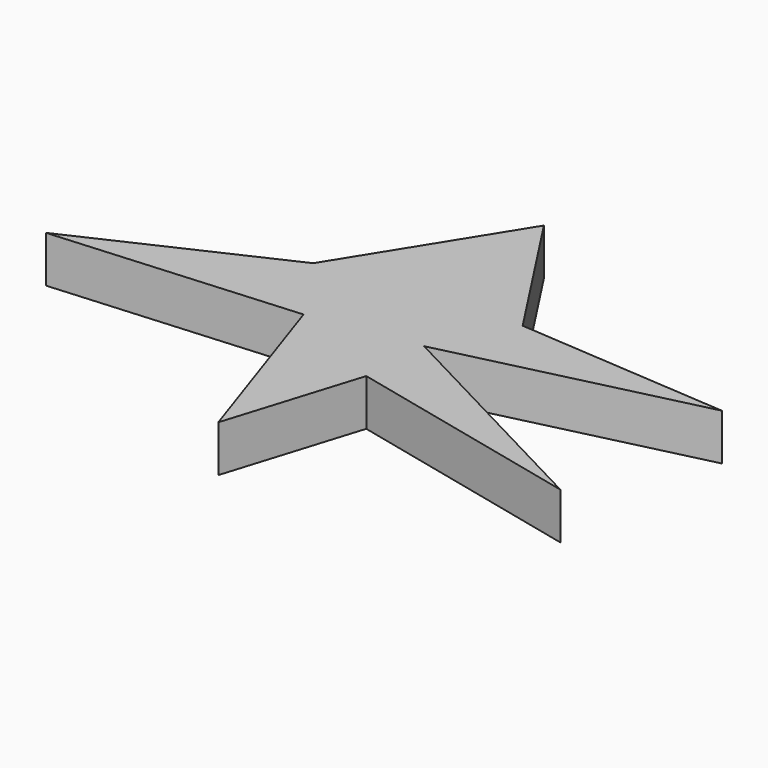
from build123d import *

# Parameters (mm, degrees)
PAD_DEPTH = 10


with BuildPart() as part:
    # Sketch → Pad (new body)
    with BuildSketch(Plane.XY):
        Polygon((-21.699836, 9.217547), (0.000202, 44.141286), (19.999998, 13.434344), (65.454544, 10.202021), (11.717171, -2.727273), (62.222218, -29.191919), (10.909092, -17.272728), (2.020198, -45.959595), (-11.313134, -6.363636), (-63.636364, -10.202021), align=None)
    extrude(amount=PAD_DEPTH)


solid = part.part
